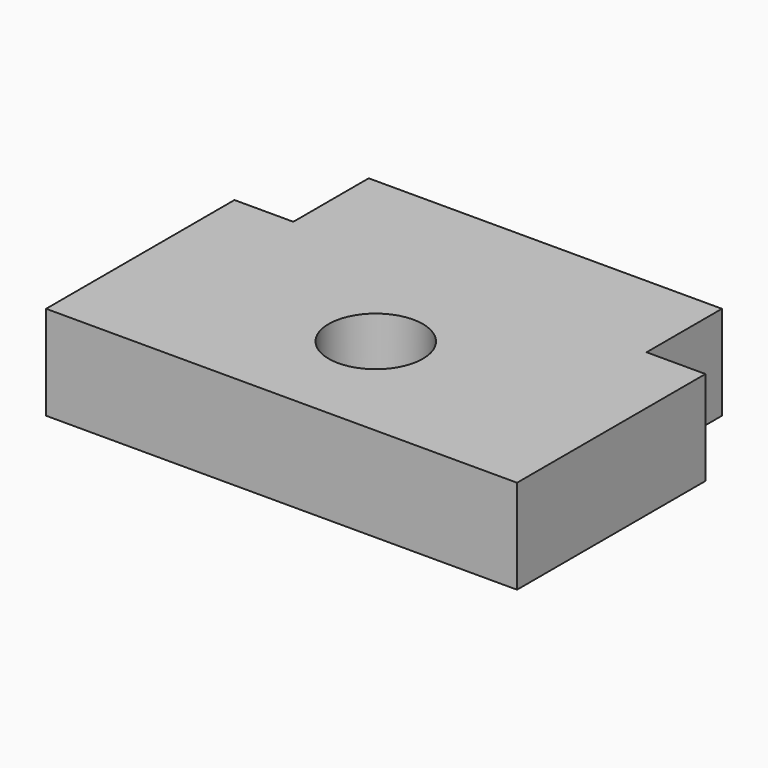
from build123d import *

# Parameters (mm, degrees)
F0_R     = 2
F0_W     = 15
F0_H     = 4
F1_DEPTH = 4


with BuildPart() as f1:
    # F0 (on Top) → F1 (new body)
    with BuildSketch(Plane.XY):
        Polygon((-20, 0), (0, 0), (0, 10), (-2.5, 10), (-17.5, 10), (-20, 10), align=None)
        with Locations((-10, 5)):
            Circle(F0_R, mode=Mode.SUBTRACT)
        with Locations((-10, 12)):
            Rectangle(F0_W, F0_H)
    extrude(amount=F1_DEPTH)


solid = f1.part
